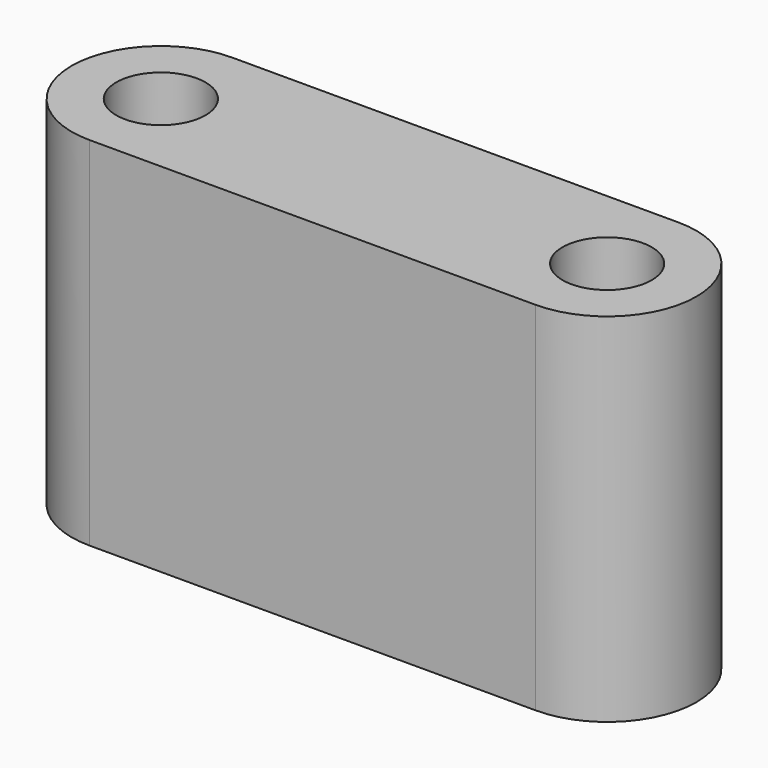
from build123d import *

# Parameters (mm, degrees)
F0_R     = 5
F1_DEPTH = 20
F2_DEPTH = 20
F3_DEPTH = 40


with BuildPart() as f1:
    # F0 (on Top) → F1 (new body)
    with BuildSketch(Plane.XY):
        with Locations((25, 0)):
            Circle(F0_R)
    extrude(amount=F1_DEPTH)


with BuildPart() as f2:
    # F0 (on Top) → F2 (new body)
    with BuildSketch(Plane.XY):
        with Locations((-25, 0)):
            Circle(F0_R)
    extrude(amount=F2_DEPTH)


with BuildPart() as f3:
    # F0 (on Top) → F3 (new body)
    with BuildSketch(Plane.XY):
        with BuildLine():
            ThreePointArc((-25, 10), (-35, 0), (-25, -10))
            Line((-25, -10), (25, -10))
            ThreePointArc((25, -10), (35, 0), (25, 10))
            Line((25, 10), (-25, 10))
        make_face()
        with Locations((-25, 0)):
            Circle(F0_R, mode=Mode.SUBTRACT)
        with Locations((25, 0)):
            Circle(F0_R, mode=Mode.SUBTRACT)
    extrude(amount=F3_DEPTH)


solid = Compound([f1.part, f2.part, f3.part])
